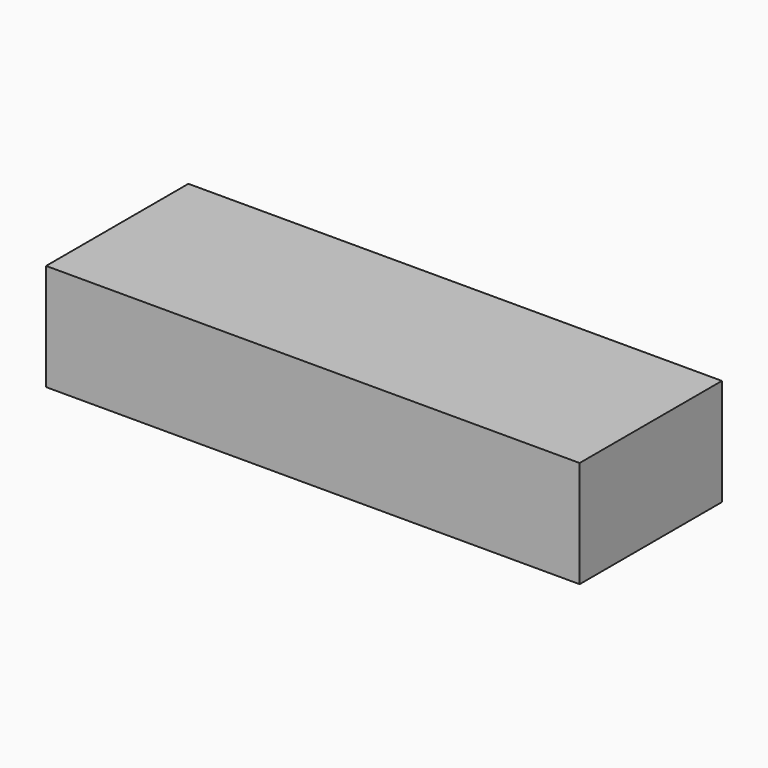
from build123d import *

# Parameters (mm, degrees)
PAD002_DEPTH = 5.2
SKETCH006_R  = 1.05
PAD003_DEPTH = 1.6
PAD003_TAPER = 30
SKETCH007_W  = 30
SKETCH007_H  = 6
PAD004_DEPTH = 4.8


with BuildPart() as part:
    # Sketch005 → Pad002 (new body)
    with BuildSketch(Plane.XZ):
        Polygon((-20.2, -1.5), (-18.352479, 1.7), (-2.581495, 1.7), (-3.851666, 3.9), (-0.651666, 3.9), (0.618505, 1.7), (5.5, 1.7), (5.5, -1.5), (8, -1.5), (8, 4.5), (-22, 4.5), (-22, -1.5), align=None)
    extrude(amount=PAD002_DEPTH)

    # Sketch006 → Pad003 (join)
    with BuildSketch(Plane.XZ.offset(5.2)):
        Circle(SKETCH006_R)
    extrude(amount=-PAD003_DEPTH, taper=PAD003_TAPER)

    # Sketch007 → Pad004 (join)
    with BuildSketch(Plane.XZ.offset(5.2)):
        with Locations((-7, 1.5)):
            Rectangle(SKETCH007_W, SKETCH007_H)
    extrude(amount=PAD004_DEPTH)


solid = part.part
